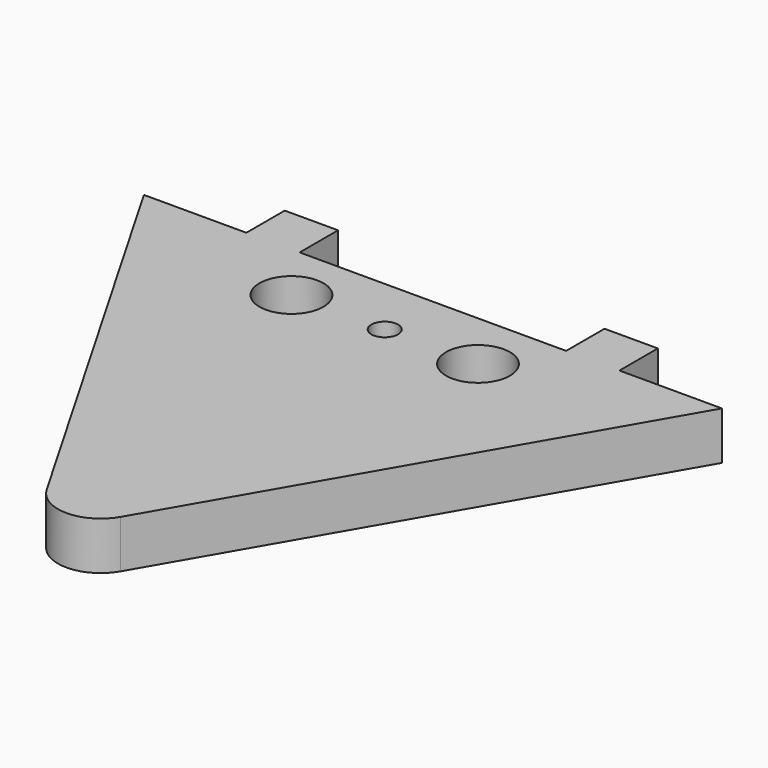
from build123d import *

# Parameters (mm, degrees)
F1_DEPTH  = 9
F2_R      = 8
F4_DEPTH  = 25
F5_W      = 120
F5_H      = 9
F6_DEPTH  = 10
F7_W      = 10
F7_H      = 9
F8_DEPTH  = 9
F10_DEPTH = 25


with BuildPart() as f1:
    # F0 (on Top) → F1 (new body)
    with BuildSketch(Plane.XY):
        Polygon((60, 34.6410161514), (-60, 34.6410161514), (0, -69.2820323028), align=None)
    extrude(amount=F1_DEPTH)

    # F2
    f2_edges = [f1.edges().sort_by_distance(p)[0] for p in [
        (0, -69.282032, 4.5),
    ]]
    fillet(f2_edges, radius=F2_R)

    # F3 (on face) → F4 (cut)
    with BuildSketch(Plane.XY.offset(9)):
        with BuildLine():
            Line((11.5, 13.3397459622), (23.5, 13.3397459622))
            ThreePointArc((23.5, 13.3397459622), (17.5, 19.3397459622), (11.5, 13.3397459622))
        make_face()
        with BuildLine():
            ThreePointArc((-23.5, 13.3397459622), (-17.5, 7.3397459622), (-11.5, 13.3397459622))
            Line((-11.5, 13.3397459622), (-23.5, 13.3397459622))
        make_face()
        with BuildLine():
            Line((-23.5, 13.3397459622), (-11.5, 13.3397459622))
            ThreePointArc((-11.5, 13.3397459622), (-17.5, 19.3397459622), (-23.5, 13.3397459622))
        make_face()
        with BuildLine():
            ThreePointArc((11.5, 13.3397459622), (17.5, 7.3397459622), (23.5, 13.3397459622))
            Line((23.5, 13.3397459622), (11.5, 13.3397459622))
        make_face()
    extrude(amount=-F4_DEPTH, mode=Mode.SUBTRACT)

    # F5 (on face) → F6 (cut)
    with BuildSketch(Plane(origin=(0, 34.6410161514, 0), x_dir=(-1, 0, 0), z_dir=(0, 1, 0))):
        with Locations((0, 4.5)):
            Rectangle(F5_W, F5_H)
    extrude(amount=-F6_DEPTH, mode=Mode.SUBTRACT)

    # F7 (on face) → F8 (join)
    with BuildSketch(Plane(origin=(0, 24.6410161514, 0), x_dir=(-1, 0, 0), z_dir=(0, 1, 0))):
        with Locations((-30, 4.5)):
            Rectangle(F7_W, F7_H)
        with Locations((30, 4.5)):
            Rectangle(F7_W, F7_H)
    extrude(amount=F8_DEPTH)

    # F9 (on face) → F10 (cut)
    with BuildSketch(Plane.XY.offset(9)):
        with BuildLine():
            ThreePointArc((2.5, 13.3397459622), (0, 15.8397459622), (-2.5, 13.3397459622))
            Line((-2.5, 13.3397459622), (2.5, 13.3397459622))
        make_face()
        with BuildLine():
            Line((2.5, 13.3397459622), (-2.5, 13.3397459622))
            ThreePointArc((-2.5, 13.3397459622), (0, 10.8397459622), (2.5, 13.3397459622))
        make_face()
    extrude(amount=-F10_DEPTH, mode=Mode.SUBTRACT)


solid = f1.part
